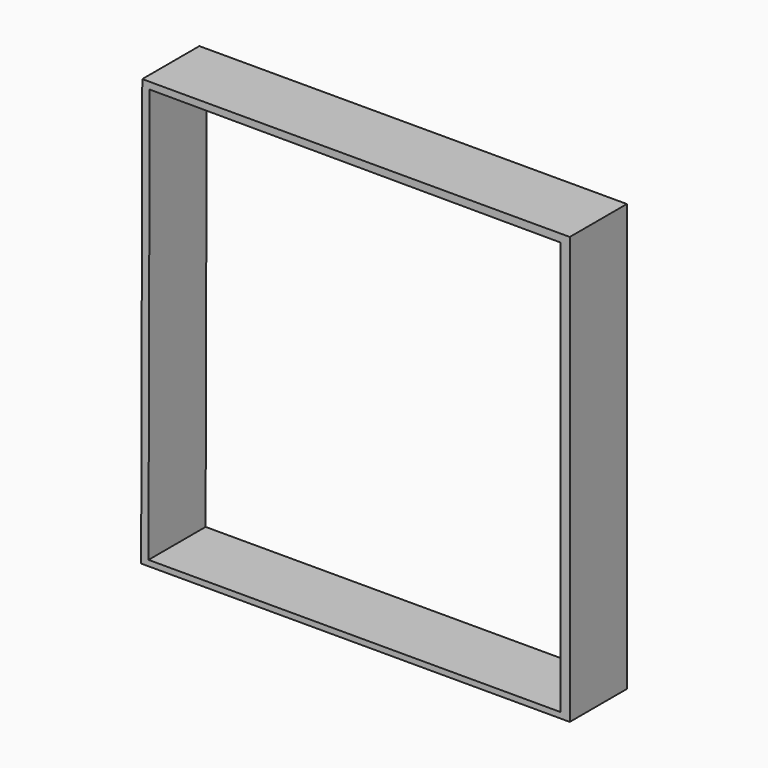
from build123d import *

# Parameters (mm, degrees)
F1_DEPTH = 25.4


with BuildPart() as f1:
    # F0 (on Front) → F1 (new body)
    with BuildSketch(Plane.XZ):
        Polygon((76.373182, 75.969093), (-75.767048, 75.969093), (-76.171137, -75.969093), (76.373182, -75.969093), align=None)
        Polygon((-73.544547, -73.948637), (-73.140457, 73.544547), (73.13834, 73.155509), (73.13834, -49.097046), (73.13834, -71.322046), (73.13834, -73.948637), align=None, mode=Mode.SUBTRACT)
    extrude(amount=F1_DEPTH)


solid = f1.part
